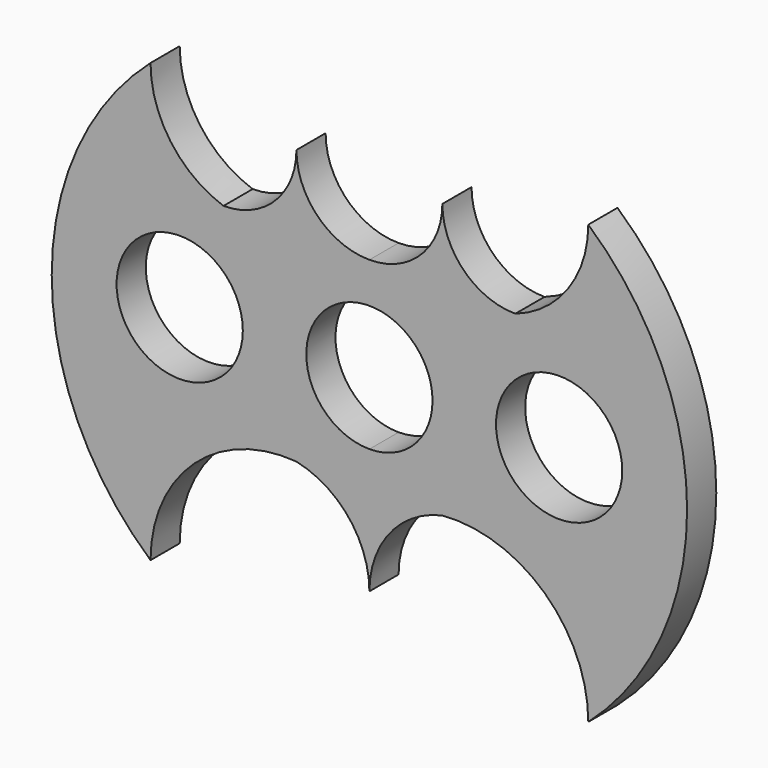
from build123d import *

# Parameters (mm, degrees)
F0_R     = 10.9855
F1_DEPTH = 6.35


with BuildPart() as f1:
    # F0 (on Front) → F1 (new body)
    with BuildSketch(Plane.XZ):
        with BuildLine():
            ThreePointArc((-22.3335889539, 39.0903010637), (-26.0533328328, 30.1100449426), (-35.0335889539, 26.3903010637))
            ThreePointArc((-35.0335889539, 26.3903010637), (-44.2325232787, 33.2453479745), (-47.7335889539, 44.1703010637))
            ThreePointArc((-47.7335889539, 44.1703010637), (-64.9325473034, 6.0703010637), (-47.7335889539, -32.0296989363))
            ThreePointArc((-47.7335889539, -32.0296989363), (-40.1610226456, -14.7715689431), (-22.3335889539, -8.6585157515))
            ThreePointArc((-22.3335889539, -8.6585157515), (-13.2040635929, -14.2930076328), (-9.6335889539, -24.4096989363))
            ThreePointArc((-9.6335889539, -24.4096989363), (-6.0631143149, -14.2930076328), (3.0664110461, -8.6585157515))
            ThreePointArc((3.0664110461, -8.6585157515), (20.8938447379, -14.7715689431), (28.4664110461, -32.0296989363))
            ThreePointArc((28.4664110461, -32.0296989363), (45.6653693956, 6.0703010637), (28.4664110461, 44.1703010637))
            ThreePointArc((28.4664110461, 44.1703010637), (24.9653453709, 33.2453479745), (15.7664110461, 26.3903010637))
            ThreePointArc((15.7664110461, 26.3903010637), (6.7861549251, 30.1100449426), (3.0664110461, 39.0903010637))
            ThreePointArc((3.0664110461, 39.0903010637), (-0.6533328328, 30.1100449426), (-9.6335889539, 26.3903010637))
            ThreePointArc((-9.6335889539, 26.3903010637), (-18.6138450749, 30.1100449426), (-22.3335889539, 39.0903010637))
        make_face()
        with Locations((-42.6535889539, 8.3668298817)):
            Circle(F0_R, mode=Mode.SUBTRACT)
        with BuildLine():
            ThreePointArc((-9.6335889539, -2.6186701183), (-17.4015104986, 16.1347514264), (1.3519110461, 8.3668298817))
            ThreePointArc((1.3519110461, 8.3668298817), (-1.8656674092, 0.598908337), (-9.6335889539, -2.6186701183))
        make_face(mode=Mode.SUBTRACT)
        with Locations((23.3864110461, 8.3668298817)):
            Circle(F0_R, mode=Mode.SUBTRACT)
    extrude(amount=F1_DEPTH)


solid = f1.part
